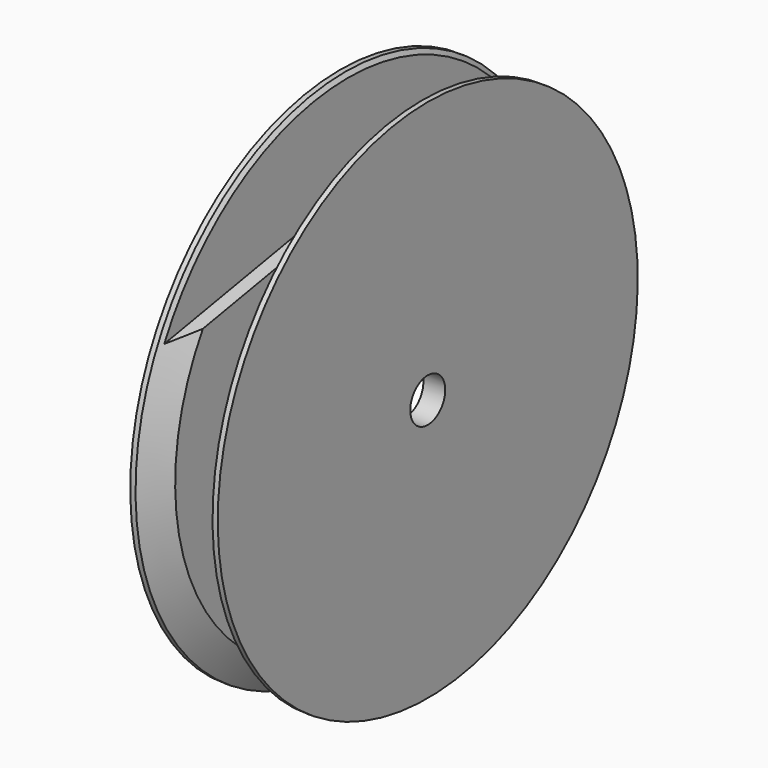
from build123d import *

# Parameters (mm, degrees)
F2_R     = 19.685
F2_R_2   = 3.175
F3_DEPTH = 9.525
F4_R     = 1.5875
F6_DEPTH = 5.207


with BuildPart() as f1:
    # F0 (on Front) → F1 (revolve)
    with BuildSketch(Plane.XZ):
        Polygon((-6.35, 38.1), (-6.35, 3.175), (6.35, 3.175), (6.35, 38.1), (5.588, 38.1), (3.175, 33.920561), (3.175, 22.86), (-3.175, 22.86), (-3.175, 33.920561), (-5.588, 38.1), align=None)
    revolve(axis=Axis((0, 0, 0), (1, 0, 0)))

    # F2 (on face) → F3 (cut)
    with BuildSketch(Plane(origin=(-6.35, 0, 0), x_dir=(0, -1, 0), z_dir=(-1, 0, 0))):
        Circle(F2_R)
        Circle(F2_R_2, mode=Mode.SUBTRACT)
    extrude(amount=-F3_DEPTH, mode=Mode.SUBTRACT)

    # F4
    f4_edges = [f1.edges().sort_by_distance(p)[0] for p in [
        (-6.35, 19.685, 0),
        (3.175, 19.685, 0),
        (-3.175, 0, -22.86),
        (3.175, 0, -22.86),
    ]]
    fillet(f4_edges, radius=F4_R)

    # F5 (on Right) → F6 (cut, symmetric)
    with BuildSketch(Plane.YZ):
        Polygon((-34.179726, 16.833192), (0, 22.86), (34.179726, 16.833192), (34.179726, 38.1), (-34.179726, 38.1), align=None)
    extrude(amount=F6_DEPTH, both=True, mode=Mode.SUBTRACT)


solid = f1.part
